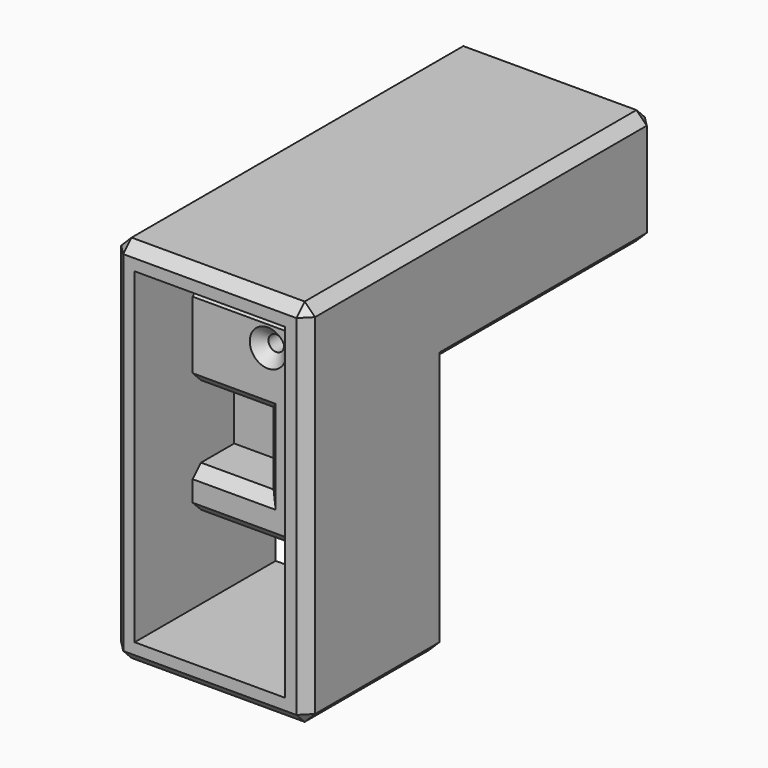
from build123d import *

# Parameters (mm, degrees)
SKETCH_W        = 18.7
SKETCH_H        = 35.7
PAD_DEPTH       = 17
SKETCH001_W     = 14.5
SKETCH001_H     = 31.5
POCKET_DEPTH    = 7
SKETCH002_W     = 14.5
SKETCH002_H     = 8
SKETCH002_H_2   = 4
POCKET001_DEPTH = 10.001
SKETCH003_R     = 0.75
SKETCH003_W     = 7
SKETCH003_H     = 7
POCKET002_DEPTH = 5
SKETCH004_W     = 18.7
SKETCH004_H     = 11.1
SKETCH004_W_2   = 14.5
SKETCH004_H_2   = 4
PAD001_DEPTH    = 25
CHAMFER_SIZE    = 1


with BuildPart() as part:
    # Sketch → Pad (new body)
    with BuildSketch(Plane.XZ):
        with Locations((0, 11.75)):
            Rectangle(SKETCH_W, SKETCH_H)
    extrude(amount=PAD_DEPTH)

    # Sketch001 (on Face6 of Pad) → Pocket (cut)
    with BuildSketch(Plane.XZ.offset(17)):
        with Locations((0, 11.75)):
            Rectangle(SKETCH001_W, SKETCH001_H)
    extrude(amount=-POCKET_DEPTH, mode=Mode.SUBTRACT)

    # Sketch002 (on Face11 of Pocket) → Pocket001 (cut, through all)
    with BuildSketch(Plane.XZ.offset(10)):
        Rectangle(SKETCH002_W, SKETCH002_H)
        with Locations((0, 25.5)):
            Rectangle(SKETCH002_W, SKETCH002_H_2)
    extrude(amount=-POCKET001_DEPTH, mode=Mode.SUBTRACT)

    # Sketch003 (on Face9 of Pocket001) → Pocket002 (cut)
    with BuildSketch(Plane.XZ.offset(10)):
        with Locations((0, 20.5)):
            Circle(SKETCH003_R)
        with Locations((-3.75, 11.5)):
            Rectangle(SKETCH003_W, SKETCH003_H)
    extrude(amount=-POCKET002_DEPTH, mode=Mode.SUBTRACT)

    # Sketch004 (on Face4 of Pocket002) → Pad001 (join)
    with BuildSketch(Plane(origin=(0, 0, 0), x_dir=(1, 0, 0), z_dir=(0, 1, 0))):
        with Locations((0, -24.05)):
            Rectangle(SKETCH004_W, SKETCH004_H)
        with Locations((0, -25.5)):
            Rectangle(SKETCH004_W_2, SKETCH004_H_2, mode=Mode.SUBTRACT)
    extrude(amount=PAD001_DEPTH)

    # Chamfer
    chamfer_edges = [part.edges().sort_by_distance(p)[0] for p in [
        (0, -17, 29.6),
        (9.35, -17, 11.75),
        (9.35, 4, 29.6),
        (-9.35, 4, 29.6),
        (-9.35, -17, 11.75),
        (0, -17, -6.1),
        (9.35, -8.5, -6.1),
        (-9.35, -8.5, -6.1),
        (0, 0, -6.1),
        (9.35, 0, 6.2),
        (9.35, 12.5, 18.5),
        (9.35, 25, 24.05),
        (-9.35, 25, 24.05),
        (-9.35, 12.5, 18.5),
        (-9.35, 0, 6.2),
        (0, 25, 18.5),
        (0, 25, 29.6),
        (0, -10, 23.5),
        (0, -10, 4),
        (-0.75, -10, 20.5),
        (-3.75, -10, 15),
        (-0.25, -10, 11.5),
        (-3.75, -10, 8),
    ]]
    chamfer(chamfer_edges, length=CHAMFER_SIZE)


solid = part.part
